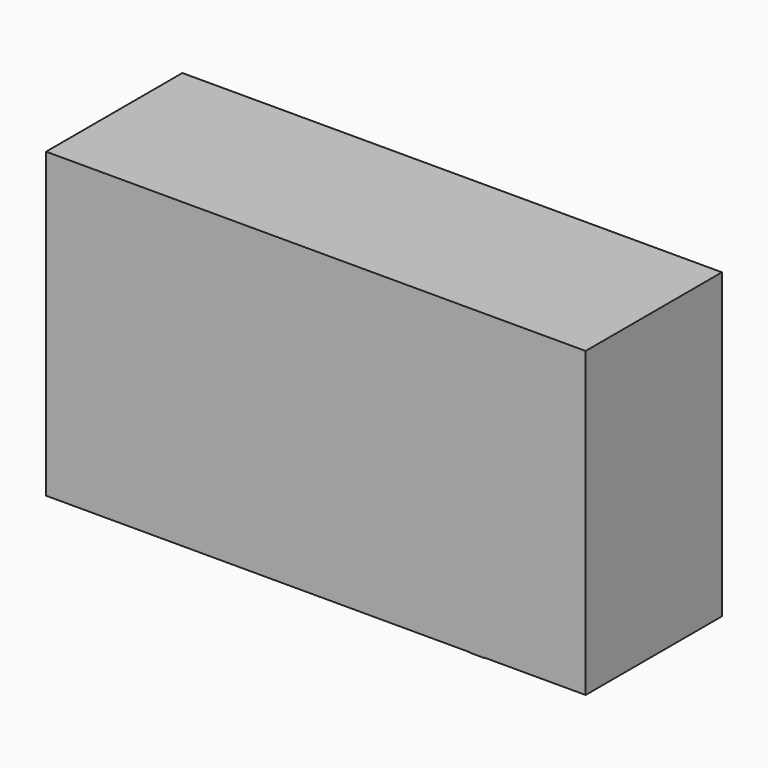
from build123d import *

# Parameters (mm, degrees)
F0_W     = 2895.6
F0_H     = 1625.6
F1_DEPTH = 914.4
F2_T     = -2.54
F4_DEPTH = 911.86
F5_R     = 219.558747
F6_DEPTH = 111.76


with BuildPart() as f1:
    # F0 (on Front) → F1 (new body)
    with BuildSketch(Plane.XZ):
        with Locations((-1.119167, 20.79364)):
            Rectangle(F0_W, F0_H)
    extrude(amount=F1_DEPTH)

    # F2
    f2_openings = [f1.faces().sort_by_distance(p)[0] for p in [
        (-1.119167, 0, 20.79364),
    ]]
    offset(amount=F2_T, openings=f2_openings)

    # F3 (on Front) → F4 (join)
    with BuildSketch(Plane.XZ):
        Polygon((899.375737, -795.714557), (899.375737, 815.094888), (823.975325, 817.448497), (823.975325, -795.714557), align=None)
    extrude(amount=F4_DEPTH)

    # F5 (on face) → F6 (cut)
    with BuildSketch(Plane.YZ.offset(899.375737)):
        with Locations((-346.814424, 138.673678)):
            Circle(F5_R)
    extrude(amount=-F6_DEPTH, mode=Mode.SUBTRACT)


solid = f1.part
